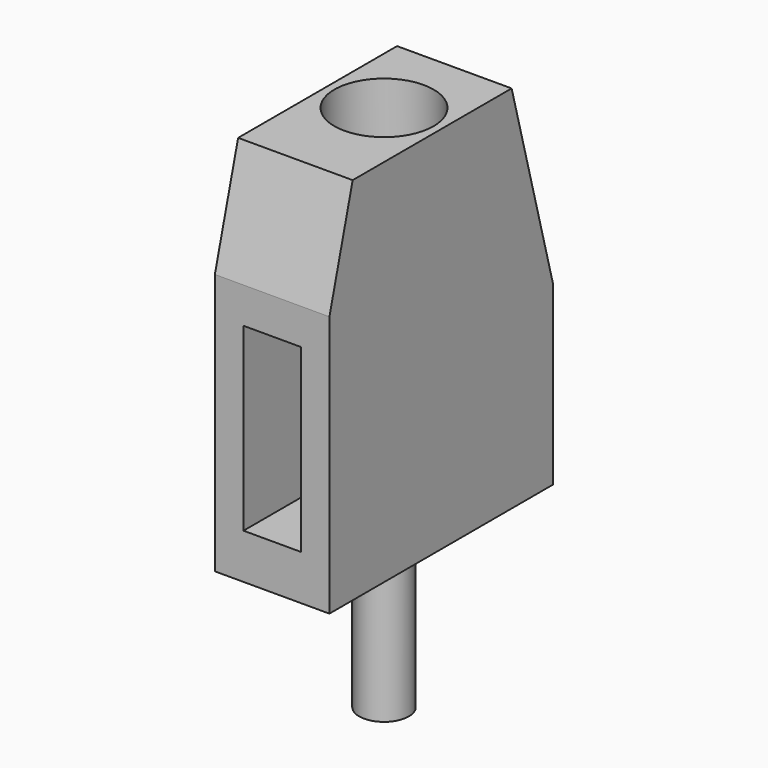
from build123d import *

# Parameters (mm, degrees)
CYLINDER001_R           = 0.55
CYLINDER001_DEPTH       = 3.5
CYLINDER_R              = 1.1
CYLINDER_DEPTH          = 3.5
CUBE003_W               = 4
CUBE003_H               = 6
CUBE003_DEPTH           = 9
CUBE003_PLACEMENT_ANGLE = 15
CUBE002_W               = 4
CUBE002_H               = 6
CUBE002_DEPTH           = 8
CUBE002_PLACEMENT_ANGLE = 15
CUBE001_W               = 1.27
CUBE001_H               = 3
CUBE001_DEPTH           = 4
CUBE_W                  = 2.54
CUBE_H                  = 6.2
CUBE_DEPTH              = 8.2


with BuildPart() as cylinder001:
    # cylinder001 → cylinder001 (new body)
    with BuildSketch(Plane(origin=(1.27, 3.1, -3.5), x_dir=(1, 0, 0), z_dir=(0, 0, 1))):
        Circle(CYLINDER001_R)
    extrude(amount=CYLINDER001_DEPTH)


with BuildPart() as cylinder:
    # cylinder → cylinder (new body)
    with BuildSketch(Plane(origin=(1.27, 3.1, 5), x_dir=(1, 0, 0), z_dir=(0, 0, 1))):
        Circle(CYLINDER_R)
    extrude(amount=CYLINDER_DEPTH)


with BuildPart() as cube003:
    # cube003 → cube003 (new body)
    with BuildSketch(Plane.XY):
        with Locations((2, 3)):
            Rectangle(CUBE003_W, CUBE003_H)
    extrude(amount=CUBE003_DEPTH)


with BuildPart() as cube003_1:
    # cube003 placement: moved
    add(cube003.part.moved(Location((-1, -7.244444, 1.941143))).rotate(Axis((-1, -7.244444, 1.941143), (-1, 0, 0)), CUBE003_PLACEMENT_ANGLE))


with BuildPart() as cube002:
    # cube002 → cube002 (new body)
    with BuildSketch(Plane.XY):
        with Locations((2, 3)):
            Rectangle(CUBE002_W, CUBE002_H)
    extrude(amount=CUBE002_DEPTH)


with BuildPart() as cube002_1:
    # cube002 placement: moved
    add(cube002.part.moved(Location((-1, 6.761481, 1.811733))).rotate(Axis((-1, 6.761481, 1.811733), (1, 0, 0)), CUBE002_PLACEMENT_ANGLE))


with BuildPart() as cube001:
    # cube001 → cube001 (new body)
    with BuildSketch(Plane(origin=(0.635, -1, 1), x_dir=(1, 0, 0), z_dir=(0, 0, 1))):
        with Locations((0.635, 1.5)):
            Rectangle(CUBE001_W, CUBE001_H)
    extrude(amount=CUBE001_DEPTH)


with BuildPart() as group:
    # cube → cube (new body)
    with BuildSketch(Plane.XY):
        with Locations((1.27, 3.1)):
            Rectangle(CUBE_W, CUBE_H)
    extrude(amount=CUBE_DEPTH)

    # difference: cut cube001
    add(cube001.part, mode=Mode.SUBTRACT)

    # difference001: cut cube002
    add(cube002_1.part, mode=Mode.SUBTRACT)

    # difference002: cut cube003
    add(cube003_1.part, mode=Mode.SUBTRACT)

    # difference003: cut cylinder
    add(cylinder.part, mode=Mode.SUBTRACT)

    # Group: union cylinder001
    add(cylinder001.part)


solid = group.part
